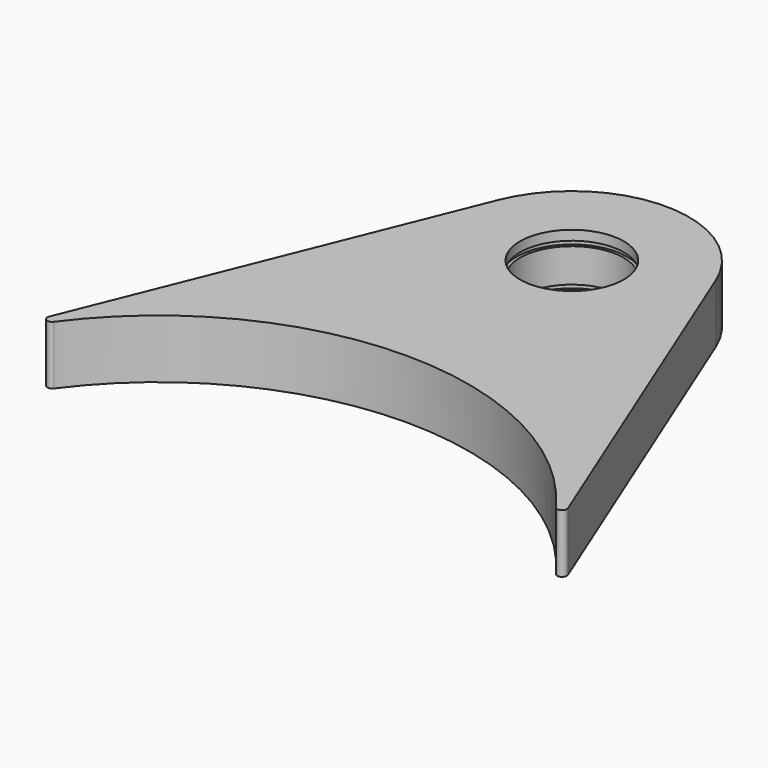
from build123d import *

# Parameters (mm, degrees)
F0_R     = 34.0995
F1_DEPTH = 38.608
F3_R     = 36.1061
F4_DEPTH = 3.175
F6_R     = 36.1061
F7_DEPTH = 3.175


with BuildPart() as f1:
    # F0 (on Top) → F1 (new body)
    with BuildSketch(Plane.XY):
        with BuildLine():
            ThreePointArc((-164.9993838278, 120.7608555636), (0, 204.47), (164.9993838278, 120.7608555636))
            ThreePointArc((164.9993838278, 120.7608555636), (169.1054469037, 119.8617116159), (170.5054247616, 123.8250783438))
            Line((170.5054247616, 123.8250783438), (71.4788316492, 369.0016363528))
            ThreePointArc((71.4788316492, 369.0016363528), (0, 417.2204), (-71.4788316492, 369.0016363528))
            Line((-71.4788316492, 369.0016363528), (-170.5054247616, 123.8250783438))
            ThreePointArc((-170.5054247616, 123.8250783438), (-169.1054469037, 119.8617116159), (-164.9993838278, 120.7608555636))
        make_face()
        with Locations((0, 340.1314)):
            Circle(F0_R, mode=Mode.SUBTRACT)
    extrude(amount=F1_DEPTH)

    # F3 (on offset) → F4 (cut)
    with BuildSketch(Plane.XY.offset(32.258)):
        with Locations((0, 340.1314)):
            Circle(F3_R)
    extrude(amount=-F4_DEPTH, mode=Mode.SUBTRACT)

    # F6 (on offset) → F7 (cut)
    with BuildSketch(Plane.XY.offset(6.858)):
        with Locations((0, 340.1314)):
            Circle(F6_R)
    extrude(amount=-F7_DEPTH, mode=Mode.SUBTRACT)


solid = f1.part
